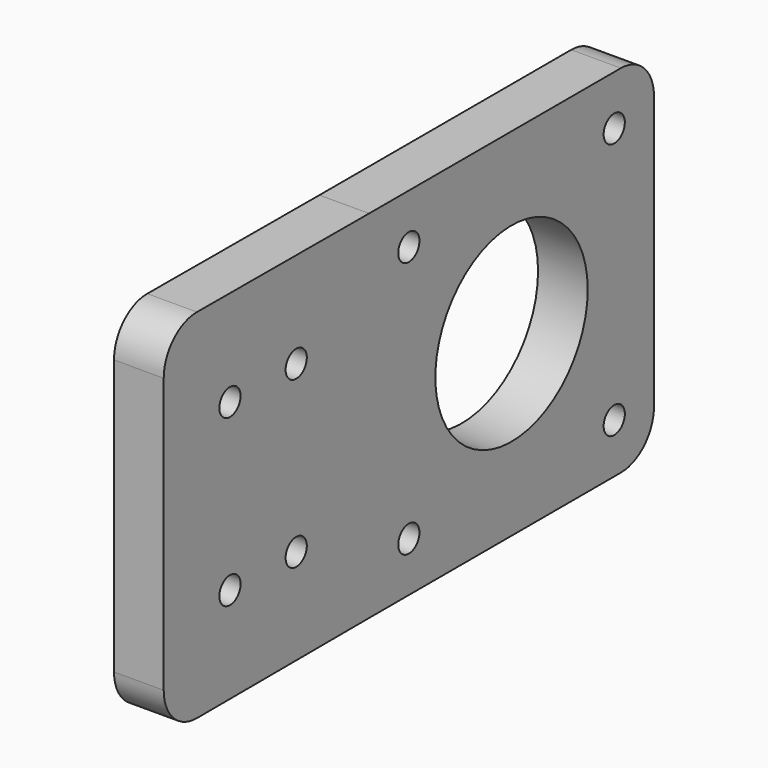
from build123d import *

# Parameters (mm, degrees)
F0_R     = 1.6
F0_R_2   = 11.5
F1_DEPTH = 6


with BuildPart() as f1:
    # F0 (on Right) → F1 (new body)
    with BuildSketch(Plane.YZ):
        with BuildLine():
            Line((31.508064, -21.5), (69.5, -21.5))
            ThreePointArc((69.5, -21.5), (73.035534, -20.035534), (74.5, -16.5))
            Line((74.5, -16.5), (74.5, 16.5))
            ThreePointArc((74.5, 16.5), (73.035534, 20.035534), (69.5, 21.5))
            Line((69.5, 21.5), (31.508064, 21.5))
            ThreePointArc((31.508064, 21.5), (31.499999, 21.500007), (31.491935, 21.500026))
            Line((31.491935, 21.500026), (5.516129, 21.583819))
            ThreePointArc((5.516129, 21.583819), (1.970173, 20.125077), (0.5, 16.583845))
            Line((0.5, 16.583845), (0.5, -16.583845))
            ThreePointArc((0.5, -16.583845), (1.970173, -20.125077), (5.516129, -21.583819))
            Line((5.516129, -21.583819), (31.491935, -21.500026))
            ThreePointArc((31.491935, -21.500026), (31.499999, -21.500007), (31.508064, -21.5))
        make_face()
        with Locations((10.5, -10)):
            Circle(F0_R, mode=Mode.SUBTRACT)
        with Locations((20.5, -10)):
            Circle(F0_R, mode=Mode.SUBTRACT)
        with Locations((37.5, -15.5)):
            Circle(F0_R, mode=Mode.SUBTRACT)
        with Locations((68.5, -15.5)):
            Circle(F0_R, mode=Mode.SUBTRACT)
        with Locations((10.5, 10)):
            Circle(F0_R, mode=Mode.SUBTRACT)
        with Locations((20.5, 10)):
            Circle(F0_R, mode=Mode.SUBTRACT)
        with Locations((53, 0)):
            Circle(F0_R_2, mode=Mode.SUBTRACT)
        with Locations((37.5, 15.5)):
            Circle(F0_R, mode=Mode.SUBTRACT)
        with Locations((68.5, 15.5)):
            Circle(F0_R, mode=Mode.SUBTRACT)
        with BuildLine():
            Line((31.508064, -21.5), (69.5, -21.5))
            ThreePointArc((69.5, -21.5), (73.035534, -20.035534), (74.5, -16.5))
            Line((74.5, -16.5), (74.5, 16.5))
            ThreePointArc((74.5, 16.5), (73.035534, 20.035534), (69.5, 21.5))
            Line((69.5, 21.5), (31.508064, 21.5))
            ThreePointArc((31.508064, 21.5), (31.499999, 21.500007), (31.491935, 21.500026))
            Line((31.491935, 21.500026), (5.516129, 21.583819))
            ThreePointArc((5.516129, 21.583819), (1.970173, 20.125077), (0.5, 16.583845))
            Line((0.5, 16.583845), (0.5, -16.583845))
            ThreePointArc((0.5, -16.583845), (1.970173, -20.125077), (5.516129, -21.583819))
            Line((5.516129, -21.583819), (31.491935, -21.500026))
            ThreePointArc((31.491935, -21.500026), (31.499999, -21.500007), (31.508064, -21.5))
        make_face()
        with Locations((10.5, -10)):
            Circle(F0_R, mode=Mode.SUBTRACT)
        with Locations((20.5, -10)):
            Circle(F0_R, mode=Mode.SUBTRACT)
        with Locations((37.5, -15.5)):
            Circle(F0_R, mode=Mode.SUBTRACT)
        with Locations((68.5, -15.5)):
            Circle(F0_R, mode=Mode.SUBTRACT)
        with Locations((10.5, 10)):
            Circle(F0_R, mode=Mode.SUBTRACT)
        with Locations((20.5, 10)):
            Circle(F0_R, mode=Mode.SUBTRACT)
        with Locations((53, 0)):
            Circle(F0_R_2, mode=Mode.SUBTRACT)
        with Locations((37.5, 15.5)):
            Circle(F0_R, mode=Mode.SUBTRACT)
        with Locations((68.5, 15.5)):
            Circle(F0_R, mode=Mode.SUBTRACT)
    extrude(amount=F1_DEPTH)


solid = f1.part
